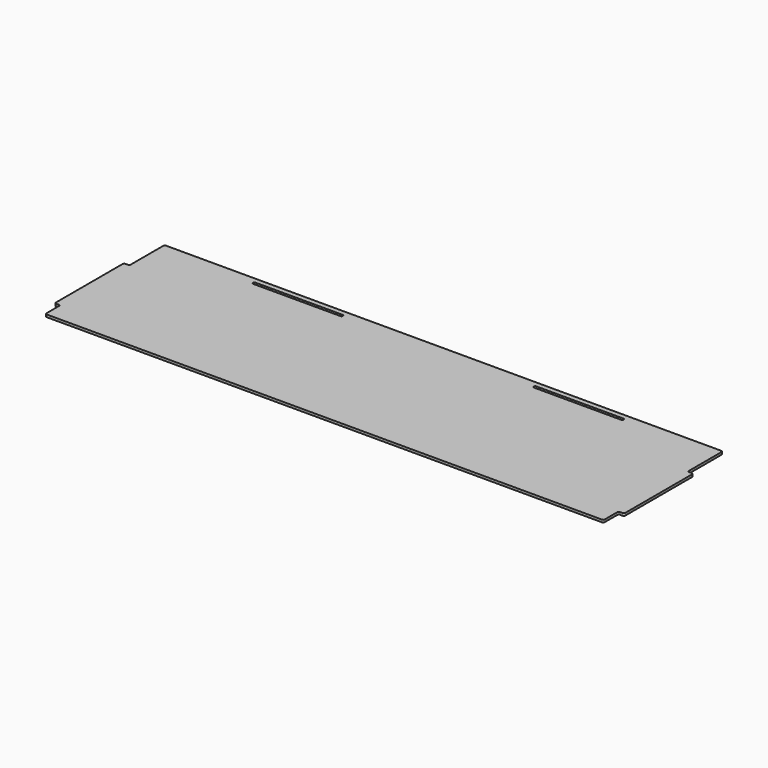
from build123d import *

# Parameters (mm, degrees)
PAD_DEPTH = 1.8542


with BuildPart() as part:
    # Sketch (on Face17 of Binder) → Pad (new body)
    with BuildSketch(Plane.XY.offset(4.0729)):
        with BuildLine():
            Line((-3.0542, 96.721), (-3.0542, 33.379))
            ThreePointArc((-3.0542, 33.379), (-2.702728, 32.530472), (-1.8542, 32.179))
            Line((-1.8542, 32.179), (0, 32.179))
            ThreePointArc((1.2, 30.979), (0.848528, 31.827528), (0, 32.179))
            Line((1.2, 30.979), (1.2, 19.127))
            ThreePointArc((1.2, 19.127), (1.551472, 18.278472), (2.4, 17.927))
            Line((2.4, 17.927), (424.6, 17.927))
            ThreePointArc((424.6, 17.927), (425.448528, 18.278472), (425.8, 19.127))
            Line((425.8, 19.127), (425.8, 30.979))
            ThreePointArc((427, 32.179), (426.151472, 31.827528), (425.8, 30.979))
            Line((427, 32.179), (428.8542, 32.179))
            ThreePointArc((428.8542, 32.179), (429.702728, 32.530472), (430.0542, 33.379))
            Line((430.0542, 33.379), (430.0542, 96.721))
            ThreePointArc((430.0542, 96.721), (429.702728, 97.569528), (428.8542, 97.921))
            Line((428.8542, 97.921), (427, 97.921))
            ThreePointArc((425.8, 99.121), (426.151472, 98.272472), (427, 97.921))
            Line((425.8, 99.121), (425.8, 130.1))
            ThreePointArc((425.8, 130.1), (425.448528, 130.948528), (424.6, 131.3))
            Line((424.6, 131.3), (2.4, 131.3))
            ThreePointArc((2.4, 131.3), (1.551472, 130.948528), (1.2, 130.1))
            Line((1.2, 130.1), (1.2, 99.121))
            ThreePointArc((0, 97.921), (0.848528, 98.272472), (1.2, 99.121))
            Line((0, 97.921), (-1.8542, 97.921))
            ThreePointArc((-1.8542, 97.921), (-2.702728, 97.569528), (-3.0542, 96.721))
        make_face()
        with BuildLine():
            ThreePointArc((73.625, 127.3541), (72.5709, 126.3), (73.625, 125.2459))
            Line((73.625, 125.2459), (139.875, 125.2459))
            ThreePointArc((139.875, 125.2459), (140.9291, 126.3), (139.875, 127.3541))
            Line((73.625, 127.3541), (139.875, 127.3541))
        make_face(mode=Mode.SUBTRACT)
        with BuildLine():
            ThreePointArc((287.125, 127.3541), (286.0709, 126.3), (287.125, 125.2459))
            Line((287.125, 125.2459), (353.375, 125.2459))
            ThreePointArc((353.375, 125.2459), (354.4291, 126.3), (353.375, 127.3541))
            Line((287.125, 127.3541), (353.375, 127.3541))
        make_face(mode=Mode.SUBTRACT)
    extrude(amount=PAD_DEPTH)


solid = part.part
